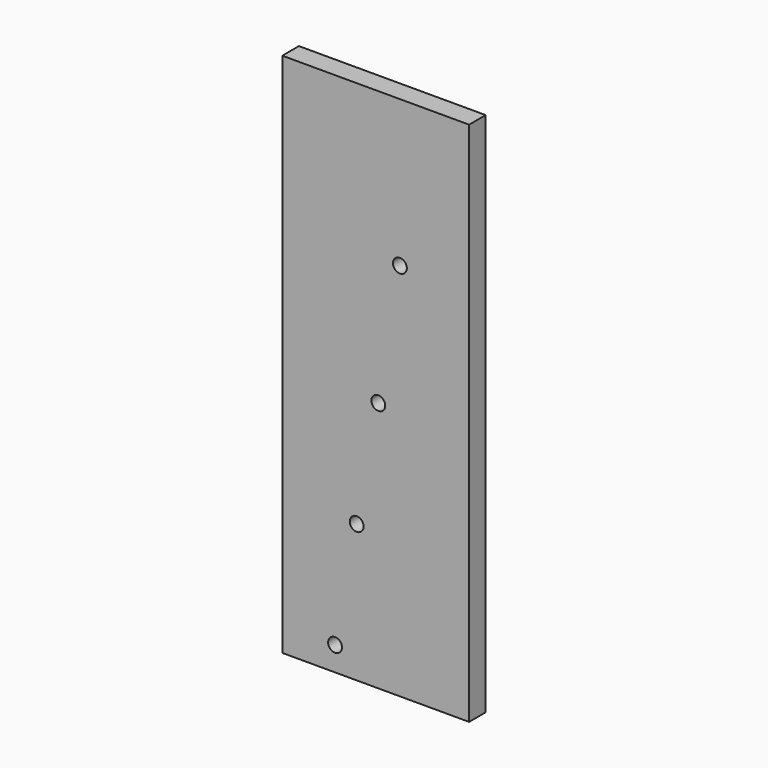
from build123d import *

# Parameters (mm, degrees)
F0_W     = 27
F0_H     = 76
F1_DEPTH = 3
F2_R     = 1
F3_DEPTH = 3


with BuildPart() as f1:
    # F0 (on Front) → F1 (new body)
    with BuildSketch(Plane.XZ):
        with Locations((13.5, 38)):
            Rectangle(F0_W, F0_H)
    extrude(amount=-F1_DEPTH)

    # F2 (on face) → F3 (cut)
    with BuildSketch(Plane.XZ):
        with Locations((17, 54.8)):
            Circle(F2_R)
        with Locations((13.875, 36.3)):
            Circle(F2_R)
        with Locations((10.75, 19.9)):
            Circle(F2_R)
        with Locations((7.625, 3.5)):
            Circle(F2_R)
    extrude(amount=-F3_DEPTH, mode=Mode.SUBTRACT)


solid = f1.part
